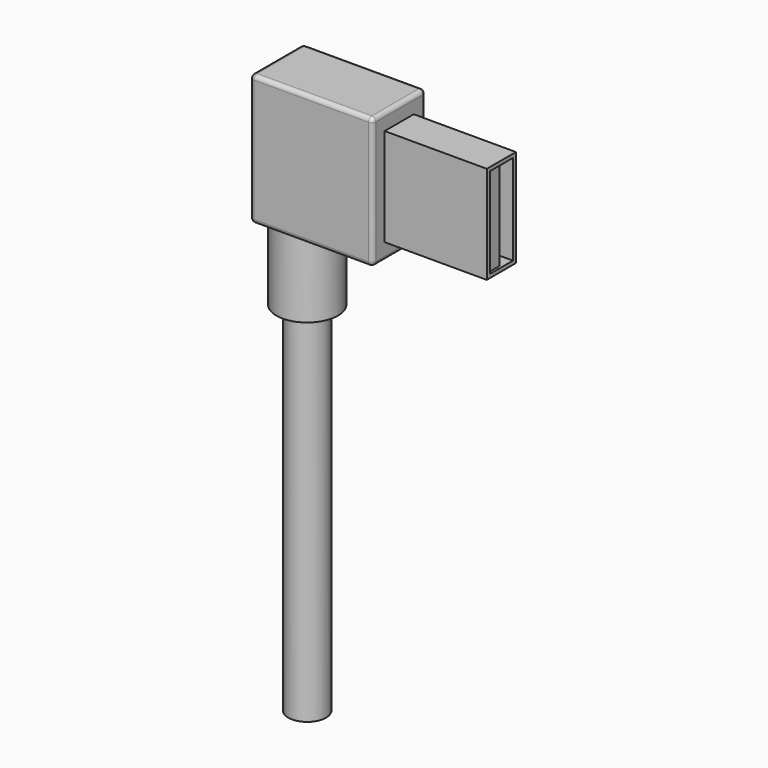
from build123d import *

# Parameters (mm, degrees)
F0_W           = 12.7
F0_H           = 12.1539
F1_DEPTH       = 2.2606
F2_DEPTH       = 4.1275
F3_W           = 3.6068
F3_H           = 11.2395
F4_DEPTH       = 12.7
F5_DEPTH       = 12.7
F6_R           = 0.508
F7_W           = 1.7526
F7_H           = 11.1379
F8_DEPTH       = 12.446
F10_DEPTH      = 9.398
F10_DEPTH_BACK = 0.508
F11_R          = 2.3495
F12_DEPTH      = 44.45


with BuildPart() as f1:
    # F0 (on Front) → F1 (new body, symmetric)
    with BuildSketch(Plane.XZ):
        Rectangle(F0_W, F0_H)
    extrude(amount=F1_DEPTH, both=True)

    # F0 (on Front) → F2 (join, symmetric)
    with BuildSketch(Plane.XZ):
        Polygon((-6.35, -8.128), (-6.35, -6.07695), (-6.35, 6.07695), (-6.35, 8.128), (-21.59, 8.128), (-21.59, -8.128), align=None)
    extrude(amount=F2_DEPTH, both=True)

    # F3 (on face) → F4 (cut)
    with BuildSketch(Plane.YZ.offset(6.35)):
        Rectangle(F3_W, F3_H)
    extrude(amount=-F4_DEPTH, mode=Mode.SUBTRACT)

    # F3 (on face) → F5 (cut)
    with BuildSketch(Plane.YZ.offset(6.35)):
        Rectangle(F3_W, F3_H)
    extrude(amount=-F5_DEPTH, mode=Mode.SUBTRACT)

    # F6
    f6_edges = [f1.edges().sort_by_distance(p)[0] for p in [
        (-6.35, -4.1275, 0),
        (-13.97, -4.1275, 8.128),
        (-21.59, -4.1275, 0),
        (-13.97, -4.1275, -8.128),
        (-6.35, 4.1275, 0),
        (-13.97, 4.1275, 8.128),
        (-21.59, 4.1275, 0),
        (-13.97, 4.1275, -8.128),
        (-21.59, 0, -8.128),
        (-21.59, 0, 8.128),
        (-6.35, 0, 8.128),
        (-6.35, 0, -8.128),
    ]]
    fillet(f6_edges, radius=F6_R)

    # F7 (on face) → F8 (join)
    with BuildSketch(Plane.YZ.offset(-6.35)):
        with Locations((-0.8763, 0)):
            Rectangle(F7_W, F7_H)
    extrude(amount=F8_DEPTH)

    # F9 (on face) → F10 (join, two sides)
    with BuildSketch(Plane(origin=(0, 0, -8.128), x_dir=(1, 0, 0), z_dir=(0, 0, -1))) as f10_sk:
        with BuildLine():
            ThreePointArc((-13.97, 0), (-17.78, 3.81), (-21.59, 0))
            Line((-21.59, 0), (-13.97, 0))
        make_face()
        with BuildLine():
            Line((-13.97, 0), (-21.59, 0))
            ThreePointArc((-21.59, 0), (-17.78, -3.81), (-13.97, 0))
        make_face()
    extrude(amount=F10_DEPTH)
    extrude(f10_sk.sketch, amount=-F10_DEPTH_BACK)

    # F11 (on face) → F12 (join)
    with BuildSketch(Plane(origin=(0, 0, -17.526), x_dir=(1, 0, 0), z_dir=(0, 0, -1))):
        with Locations((-17.78, 0)):
            Circle(F11_R)
    extrude(amount=F12_DEPTH)


solid = f1.part
